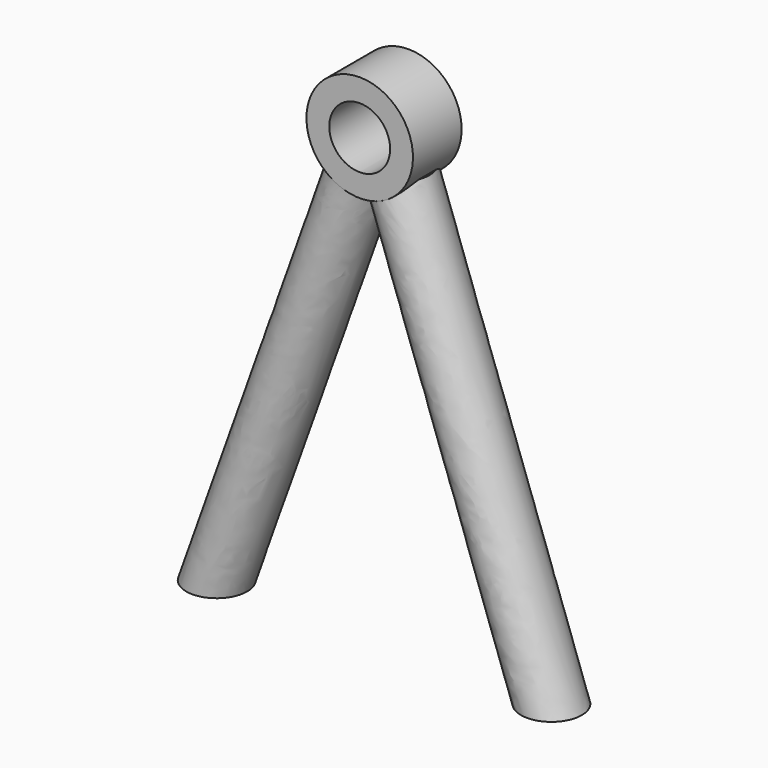
from build123d import *

# Parameters (mm, degrees)
F0_R     = 10
F4_R     = 17.5
F4_R_2   = 10
F5_DEPTH = 10


with BuildPart() as f2:
    # F2: sweep along a path in F1
    with BuildLine(Plane.XZ) as f2_path:
        Line((-55, 0), (-5, 140))
    # F0 (on Top) → F2 (sweep)
    with BuildSketch(Plane.XY):
        with Locations((-55, 0)):
            Circle(F0_R)
    sweep(path=f2_path.line)

    # F3: sweep along a path in F1
    with BuildLine(Plane.XZ) as f3_path:
        Line((55, 0), (5, 140))
    # F0 (on Top) → F3 (sweep)
    with BuildSketch(Plane.XY):
        with Locations((55, 0)):
            Circle(F0_R)
    sweep(path=f3_path.line)

    # F4 (on Front) → F5 (join, symmetric)
    with BuildSketch(Plane.XZ):
        with Locations((0, 150)):
            Circle(F4_R)
        with Locations((0, 150)):
            Circle(F4_R_2, mode=Mode.SUBTRACT)
    extrude(amount=F5_DEPTH, both=True)


solid = f2.part
